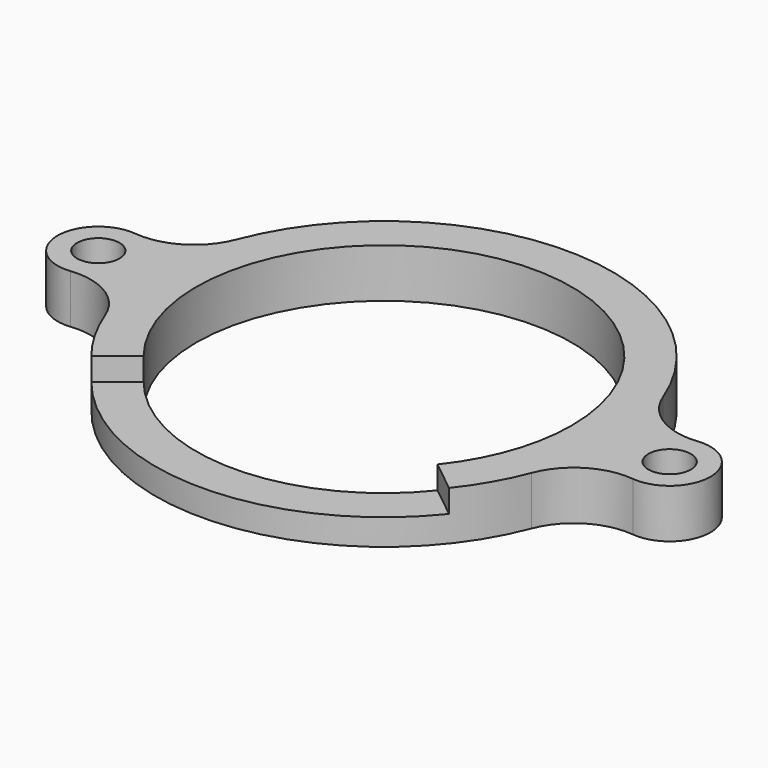
from build123d import *

# Parameters (mm, degrees)
SKETCH_R     = 11.5
SKETCH_R_2   = 1.3
PAD_DEPTH    = 3
POCKET_DEPTH = 1.4


with BuildPart() as part:
    # Sketch → Pad (new body)
    with BuildSketch(Plane.XY):
        with BuildLine():
            ThreePointArc((13.066667, 5.026154), (0, 14), (-13.066667, 5.026154))
            ThreePointArc((-17.230769, 2.485461), (-14.71661, 3.047599), (-13.066667, 5.026154))
            ThreePointArc((-17.230769, 2.485461), (-20, 0), (-17.230769, -2.485461))
            ThreePointArc((-13.066667, -5.026154), (-14.71661, -3.047599), (-17.230769, -2.485461))
            ThreePointArc((-13.066667, -5.026154), (0, -14), (13.066667, -5.026154))
            ThreePointArc((17.230769, -2.485461), (14.71661, -3.047599), (13.066667, -5.026154))
            ThreePointArc((17.230769, -2.485461), (20, 0), (17.230769, 2.485461))
            ThreePointArc((13.066667, 5.026154), (14.71661, 3.047599), (17.230769, 2.485461))
        make_face()
        Circle(SKETCH_R, mode=Mode.SUBTRACT)
        with Locations((-17.5, 0)):
            Circle(SKETCH_R_2, mode=Mode.SUBTRACT)
        with Locations((17.5, 0)):
            Circle(SKETCH_R_2, mode=Mode.SUBTRACT)
    extrude(amount=PAD_DEPTH)

    # Sketch001 (on Face13 of Pad) → Pocket (cut)
    with BuildSketch(Plane.XY.offset(3)):
        with BuildLine():
            ThreePointArc((-9, -7.158911), (0, -11.5), (9, -7.158911))
            Line((10.956522, -8.715195), (9, -7.158911))
            ThreePointArc((-10.956522, -8.715195), (0, -14), (10.956522, -8.715195))
            Line((-10.956522, -8.715195), (-9, -7.158911))
        make_face()
    extrude(amount=-POCKET_DEPTH, mode=Mode.SUBTRACT)


solid = part.part
